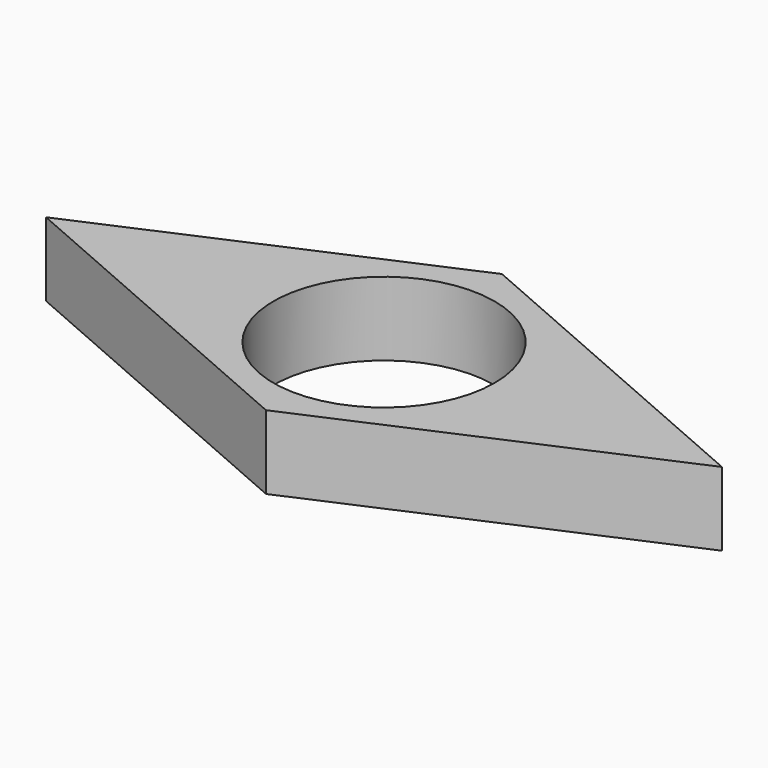
from build123d import *

# Parameters (mm, degrees)
F1_DEPTH = 10
F2_R     = 15
F3_DEPTH = 10.001


with BuildPart() as f1:
    # F0 (on Top) → F1 (new body)
    with BuildSketch(Plane.XY):
        Polygon((-1027.445485, 244.651396), (-981.619728, 224.651396), (-935.793971, 244.651396), (-981.619728, 264.651396), align=None)
    extrude(amount=F1_DEPTH)

    # F2 (on face) → F3 (cut, through all)
    with BuildSketch(Plane(origin=(0, 0, 0), x_dir=(1, 0, 0), z_dir=(0, 0, -1))):
        with Locations((-981.619728, -244.651396)):
            Circle(F2_R)
    extrude(amount=-F3_DEPTH, mode=Mode.SUBTRACT)


solid = f1.part
